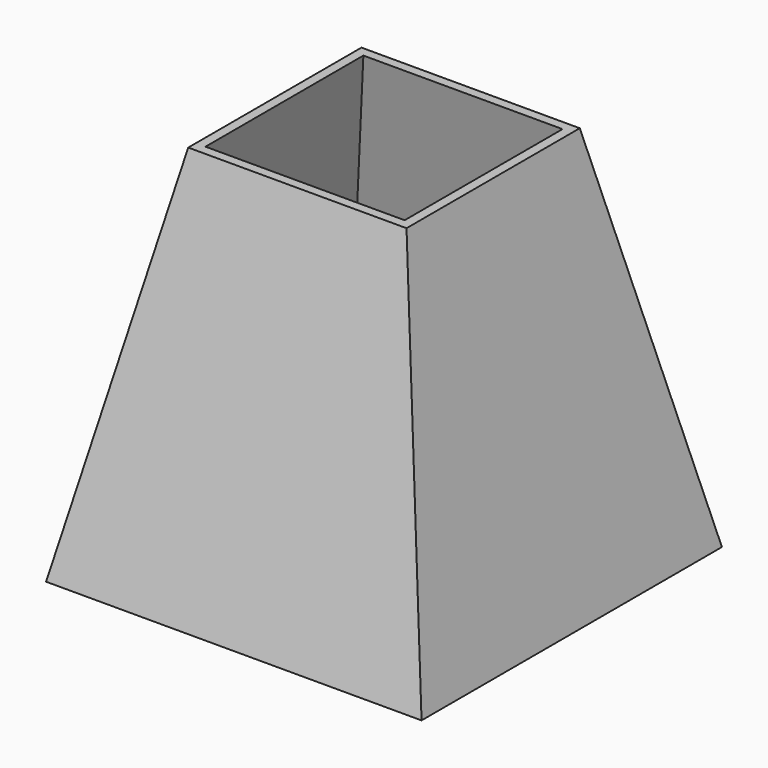
from build123d import *

# Parameters (mm, degrees)
F0_W = 101.6
F0_H = 101.6
F2_W = 59.0723752975
F2_H = 58.5963726044
F4_T = -2.54


with BuildPart() as f3:
    # F0 (on Top) → F3 section 0
    with BuildSketch(Plane.XY):
        Rectangle(F0_W, F0_H)
    # F2 (on offset) → F3 section 1
    with BuildSketch(Plane.XY.offset(101.6)):
        Rectangle(F2_W, F2_H)
    loft()

    # F4
    f4_openings = [f3.faces().sort_by_distance(p)[0] for p in [
        (0, 0, 0),
        (0, 0, 101.6),
    ]]
    offset(amount=F4_T, openings=f4_openings, kind=Kind.INTERSECTION)


solid = f3.part
